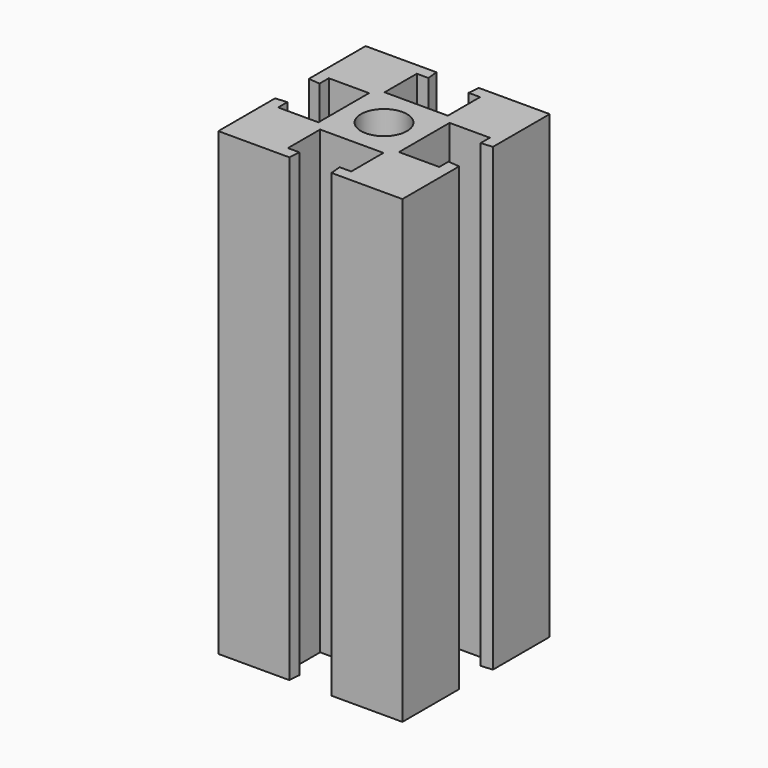
from build123d import *

# Parameters (mm, degrees)
F0_W     = 50.8
F0_H     = 50.8
F1_DEPTH = 127
F2_R     = 6.35
F3_DEPTH = 177.8


with BuildPart() as f1:
    # F0 (on Top) → F1 (new body)
    with BuildSketch(Plane.XY):
        with Locations((25.4, -25.4)):
            Rectangle(F0_W, F0_H)
    extrude(amount=F1_DEPTH)

    # F2 (on face) → F3 (cut)
    with BuildSketch(Plane.XY.offset(127)):
        with Locations((25.4, -25.4)):
            Circle(F2_R)
        Polygon((19.84375, -47.625), (19.58975, -50.8), (31.21025, -50.8), (30.95625, -47.625), (34.13125, -47.625), (34.13125, -36.5125), (16.66875, -36.5125), (16.66875, -47.625), align=None)
        Polygon((50.8, -31.21025), (50.8, -19.58975), (47.625, -19.84375), (47.625, -16.66875), (36.5125, -16.66875), (36.5125, -34.13125), (47.625, -34.13125), (47.625, -30.95625), align=None)
        Polygon((3.175, -19.84375), (0, -19.58975), (0, -31.21025), (3.175, -30.95625), (3.175, -34.13125), (14.2875, -34.13125), (14.2875, -16.66875), (3.175, -16.66875), align=None)
        Polygon((19.84375, -3.175), (16.66875, -3.175), (16.66875, -14.2875), (34.13125, -14.2875), (34.13125, -3.175), (30.95625, -3.175), (31.21025, 0), (19.58975, 0), align=None)
    extrude(amount=-F3_DEPTH, mode=Mode.SUBTRACT)


solid = f1.part
